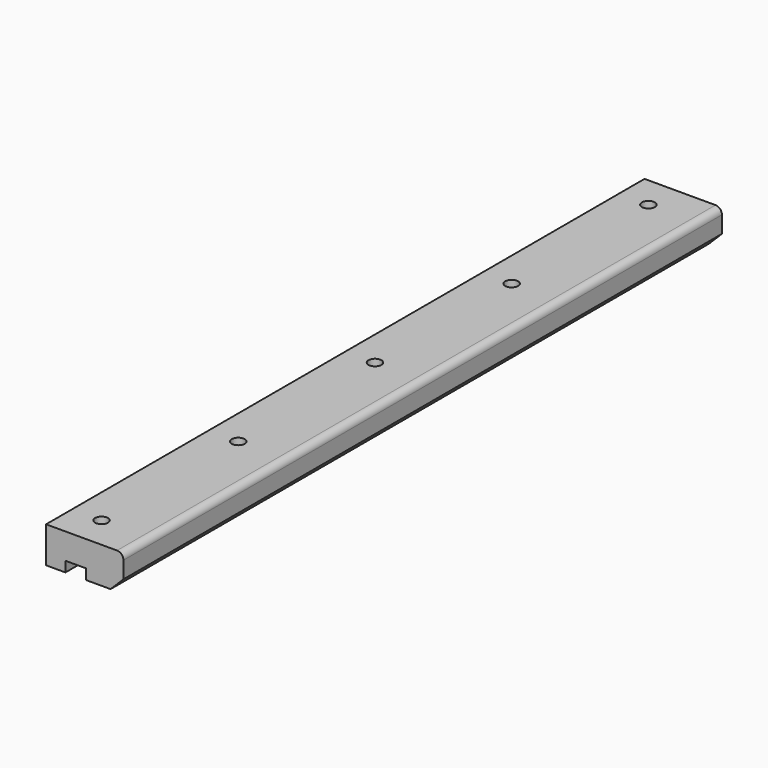
from build123d import *

# Parameters (mm, degrees)
F1_DEPTH = 580
F2_R     = 5
F3_DEPTH = 20.001
F4_R     = 5


with BuildPart() as f1:
    # F0 (on Front) → F1 (new body)
    with BuildSketch(Plane.XZ):
        Polygon((0, 28), (0, 0), (15, 0), (15, 8), (31, 8), (31, 0), (50, 0), (60, 10), (60, 28), align=None)
    extrude(amount=F1_DEPTH)

    # F2 (on face) → F3 (cut, through all)
    with BuildSketch(Plane(origin=(0, 0, 8), x_dir=(1, 0, 0), z_dir=(0, 0, -1))):
        with Locations((23, 25)):
            Circle(F2_R)
        with Locations((23, 157.5)):
            Circle(F2_R)
        with Locations((23, 290)):
            Circle(F2_R)
        with Locations((23, 422.5)):
            Circle(F2_R)
        with Locations((23, 555)):
            Circle(F2_R)
    extrude(amount=-F3_DEPTH, mode=Mode.SUBTRACT)

    # F4
    f4_edges = [f1.edges().sort_by_distance(p)[0] for p in [
        (60, -290, 28),
    ]]
    fillet(f4_edges, radius=F4_R)


solid = f1.part
